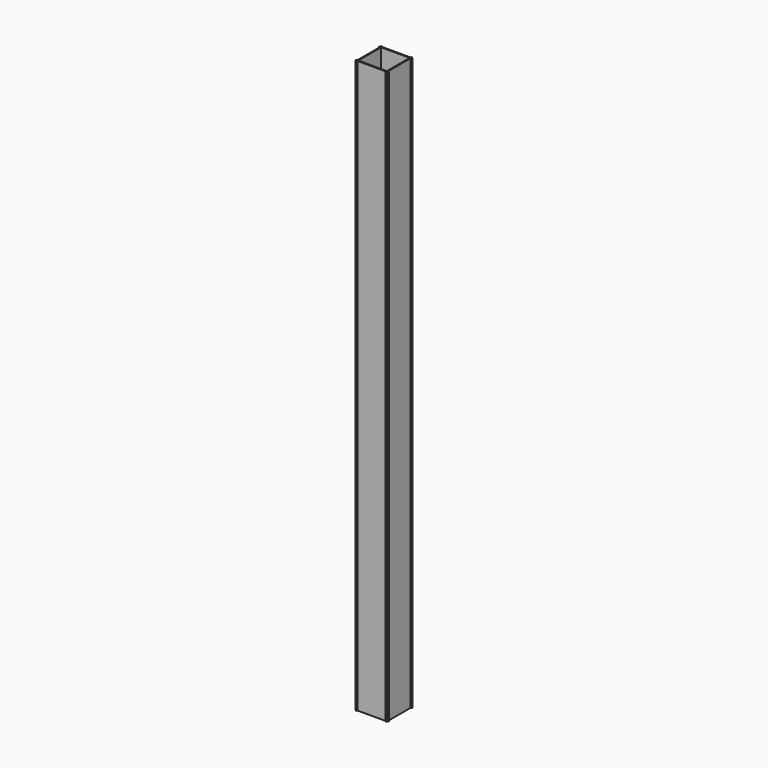
from build123d import *

# Parameters (mm, degrees)
F0_W     = 150
F0_H     = 150
F1_DEPTH = 3000


with BuildPart() as f1:
    # F0 (on Top) → F1 (new body)
    with BuildSketch(Plane.XY):
        Polygon((-81.727976, 84.001218), (-86.727976, 84.001218), (-86.727976, 79.001218), (-81.727976, 79.001218), (-81.727976, -70.998782), (-86.727976, -70.998782), (-86.727976, -75.998782), (-81.727976, -75.998782), (-81.727976, -80.998782), (-76.727976, -80.998782), (-76.727976, -75.998782), (73.272024, -75.998782), (73.272024, -80.998782), (78.272024, -80.998782), (78.272024, -75.998782), (83.272024, -75.998782), (83.272024, -70.998782), (78.272024, -70.998782), (78.272024, 79.001218), (83.272024, 79.001218), (83.272024, 84.001218), (78.272024, 84.001218), (78.272024, 89.001218), (73.272024, 89.001218), (73.272024, 84.001218), (-76.727976, 84.001218), (-76.727976, 89.001218), (-81.727976, 89.001218), align=None)
        with Locations((-1.727976, 4.001218)):
            Rectangle(F0_W, F0_H, mode=Mode.SUBTRACT)
    extrude(amount=F1_DEPTH)


solid = f1.part
